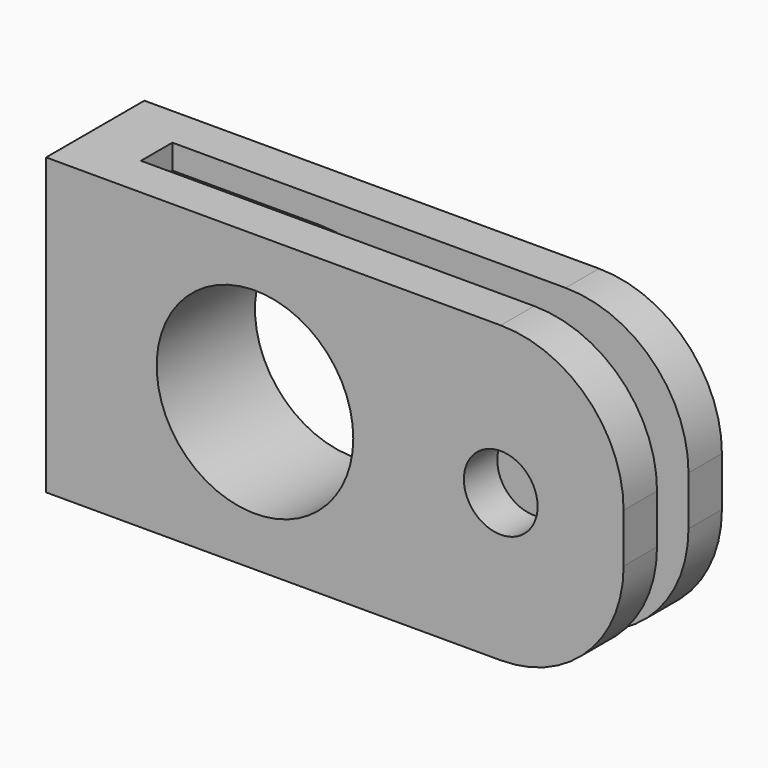
from build123d import *

# Parameters (mm, degrees)
F0_W     = 12
F0_H     = 12
F0_R     = 4
F0_R_2   = 1.5
F0_W_2   = 2.5
F1_DEPTH = 2.5
F3_DEPTH = 0.8


with BuildPart() as f1:
    # F0 (on Front) → F1 (new body, symmetric)
    with BuildSketch(Plane.XZ):
        Rectangle(F0_W, F0_H)
        Circle(F0_R, mode=Mode.SUBTRACT)
        with BuildLine():
            Line((10, 6), (6, 6))
            Line((6, 6), (6, -6))
            Line((6, -6), (10, -6))
            ThreePointArc((10, -6), (13.5355339059, -4.5355339059), (15, -1))
            Line((15, -1), (15, 0))
            Line((15, 0), (15, 1))
            ThreePointArc((15, 1), (13.5355339059, 4.5355339059), (10, 6))
        make_face()
        with Locations((10, 0)):
            Circle(F0_R_2, mode=Mode.SUBTRACT)
        with Locations((-7.25, 0)):
            Rectangle(F0_W_2, F0_H)
    extrude(amount=F1_DEPTH, both=True)

    # F2 (on Front) → F3 (cut, symmetric)
    with BuildSketch(Plane.XZ):
        with BuildLine():
            Line((-6, 5), (0, 5))
            ThreePointArc((0, 5), (5, 0), (0, -5))
            Line((0, -5), (-6, -5))
            Line((-6, -5), (-6, -6))
            Line((-6, -6), (6, -6))
            Line((6, -6), (10, -6))
            ThreePointArc((10, -6), (13.5355339059, -4.5355339059), (15, -1))
            Line((15, -1), (15, 0))
            Line((15, 0), (15, 1))
            ThreePointArc((15, 1), (13.5355339059, 4.5355339059), (10, 6))
            Line((10, 6), (6, 6))
            Line((6, 6), (-6, 6))
            Line((-6, 6), (-6, 5))
        make_face()
    extrude(amount=F3_DEPTH, both=True, mode=Mode.SUBTRACT)


solid = f1.part
